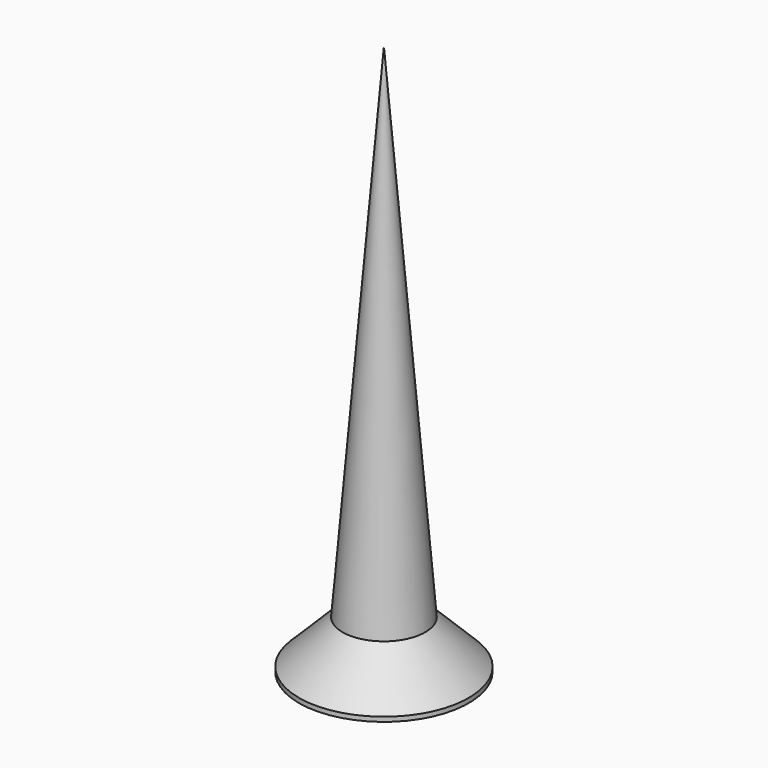
from build123d import *

# Parameters (mm, degrees)
POCKET003_DEPTH         = 0.2
POLARPATTERN003_COUNT   = 2
POLARPATTERN003_ANGLE   = 90
BODY007_PLACEMENT_ANGLE = 180


with BuildPart() as part:
    # Sketch013 → Revolution003 (revolve)
    with BuildSketch(Plane.XZ):
        Polygon((0, 0), (0, -12), (0.9, -1.05), (1.85, -0.1), (1.85, 0), align=None)
    revolve(axis=Axis((0, 0, 0), (0, 0, 1)))

    # Sketch014 → Pocket003 (cut, symmetric)
    with BuildSketch(Plane.XZ):
        Polygon((-1.15, 0), (0, -1.15), (1.15, 0), align=None)
    pocket003 = extrude(amount=POCKET003_DEPTH, both=True, mode=Mode.SUBTRACT)

    # PolarPattern003: Pocket003 ×2 about axis
    polarpattern003_axis = Axis((0, 0, 0), (0, 0, 1))
    for i in range(1, POLARPATTERN003_COUNT):
        add(pocket003.rotate(polarpattern003_axis, i * POLARPATTERN003_ANGLE / (POLARPATTERN003_COUNT - 1)), mode=Mode.SUBTRACT)


with BuildPart() as part_1:
    # Body007 placement: moved
    add(part.part.moved(Location((-25, 19, -6.7))).rotate(Axis((-25, 19, -6.7), (0, 1, 0)), BODY007_PLACEMENT_ANGLE))


solid = part_1.part
